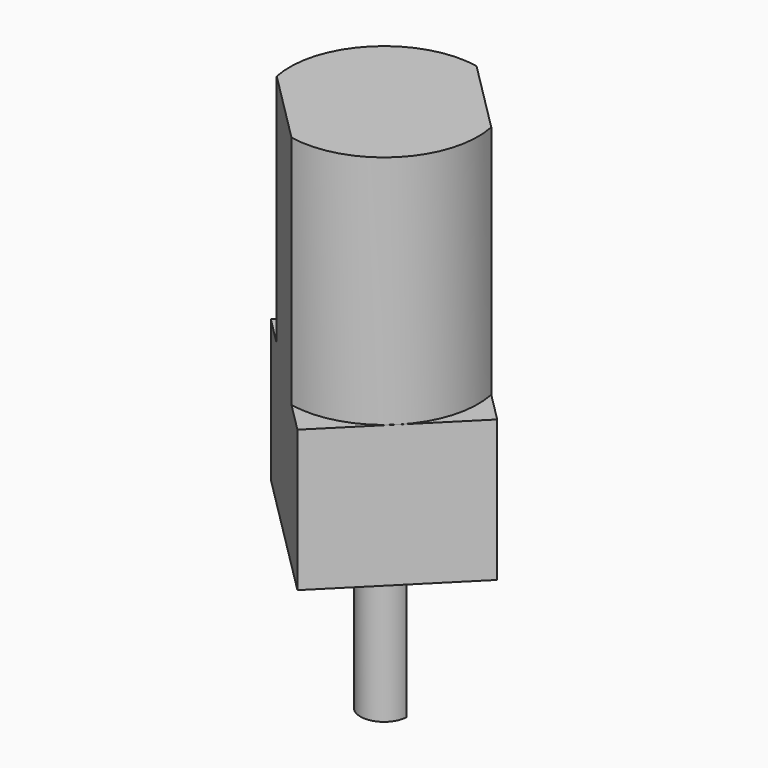
from build123d import *

# Parameters (mm, degrees)
CYLINDER076_R                            = 2
CYLINDER076_DEPTH                        = 1
BOX406008005_W                           = 16
BOX406008005_H                           = 10
BOX406008005_DEPTH                       = 27
CYLINDER077_R                            = 6
CYLINDER077_DEPTH                        = 15
BOX406008006_W                           = 10
BOX406008006_H                           = 10
BOX406008006_DEPTH                       = 12
CYLINDER078_R                            = 1.5
CYLINDER078_DEPTH                        = 10
BOX406008004_W                           = 12
BOX406008004_H                           = 10
BOX406008004_DEPTH                       = 9
FUSION103077013004017004_PLACEMENT_ANGLE = 45


with BuildPart() as boss002:
    # Cylinder076 → Cylinder076 (new body)
    with BuildSketch(Plane.XY.offset(-1)):
        Circle(CYLINDER076_R)
    extrude(amount=CYLINDER076_DEPTH)


with BuildPart() as gearbox005:
    # Box406008005 → Box406008005 (new body)
    with BuildSketch(Plane(origin=(-8, -5, 0), x_dir=(1, 0, 0), z_dir=(0, 0, 1))):
        with Locations((8, 5)):
            Rectangle(BOX406008005_W, BOX406008005_H)
    extrude(amount=BOX406008005_DEPTH)


with BuildPart() as motor002:
    # Cylinder077 → Cylinder077 (new body)
    with BuildSketch(Plane.XY.offset(9)):
        Circle(CYLINDER077_R)
    extrude(amount=CYLINDER077_DEPTH)

    # Common001: intersect gearbox005
    add(gearbox005.part, mode=Mode.INTERSECT)


with BuildPart() as cube341:
    # Box406008006 → Box406008006 (new body)
    with BuildSketch(Plane(origin=(-5, 1, -11), x_dir=(1, 0, 0), z_dir=(0, 0, 1))):
        with Locations((5, 5)):
            Rectangle(BOX406008006_W, BOX406008006_H)
    extrude(amount=BOX406008006_DEPTH)


with BuildPart() as shaft002:
    # Cylinder078 → Cylinder078 (new body)
    with BuildSketch(Plane.XY.offset(-10)):
        Circle(CYLINDER078_R)
    extrude(amount=CYLINDER078_DEPTH)

    # Cut001: cut Cube341
    add(cube341.part, mode=Mode.SUBTRACT)


with BuildPart() as motor_assembled:
    # Box406008004 → Box406008004 (new body)
    with BuildSketch(Plane(origin=(-6, -5, 0), x_dir=(1, 0, 0), z_dir=(0, 0, 1))):
        with Locations((6, 5)):
            Rectangle(BOX406008004_W, BOX406008004_H)
    extrude(amount=BOX406008004_DEPTH)

    # Fusion103077013004017004: union boss002, motor002, shaft002
    add(boss002.part)
    add(motor002.part)
    add(shaft002.part)


with BuildPart() as motor_assembled_1:
    # Fusion103077013004017004 placement: moved
    add(motor_assembled.part.moved(Location((0, 0, 20.5))).rotate(Axis((0, 0, 20.5), (0, 0, -1)), FUSION103077013004017004_PLACEMENT_ANGLE))


solid = motor_assembled_1.part
